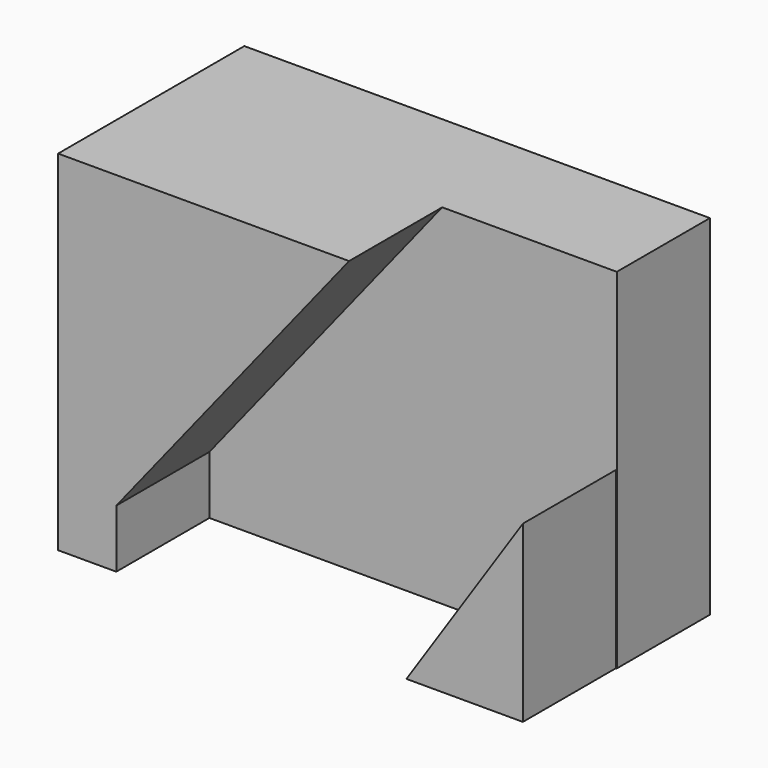
from build123d import *

# Parameters (mm, degrees)
F0_W     = 50.8
F0_H     = 38.1
F1_DEPTH = 25.4
F5_DEPTH = 12.7


with BuildPart() as f1:
    # F0 (on Front) → F1 (new body)
    with BuildSketch(Plane.XZ):
        with Locations((25.4, 19.05)):
            Rectangle(F0_W, F0_H)
    extrude(amount=F1_DEPTH)

    # F4 (on face) → F5 (cut)
    with BuildSketch(Plane.XZ.offset(25.4)):
        Polygon((6.35, 0), (6.551415, 0), (38.014594, 0), (50.714594, 19.05), (50.714594, 0), (50.8, 0), (50.8, 37.926391), (50.8, 38.1), (31.75, 38.1), (6.35, 6.35), align=None)
    extrude(amount=-F5_DEPTH, mode=Mode.SUBTRACT)


solid = f1.part
